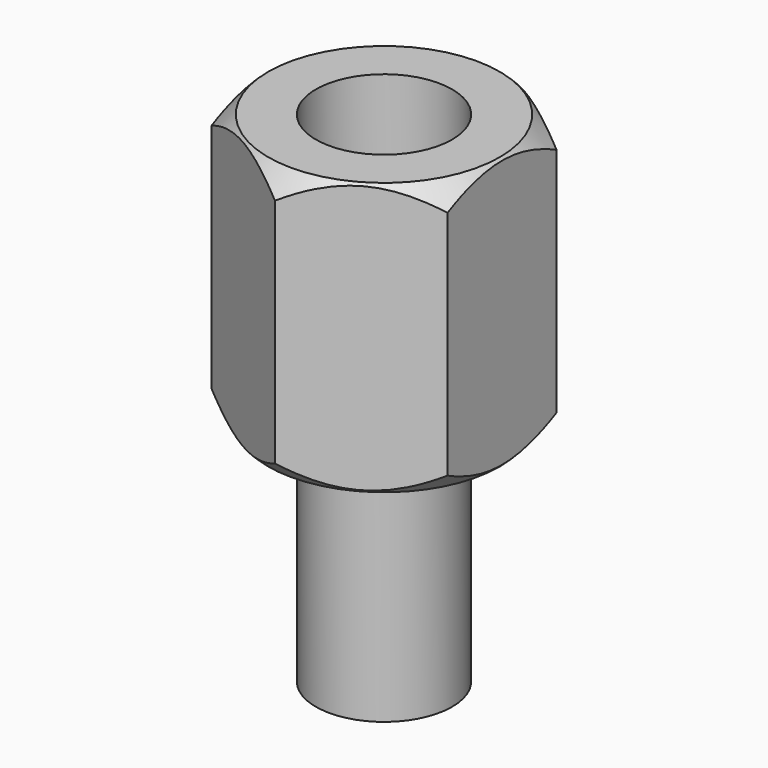
from build123d import *

# Parameters (mm, degrees)
PAD_DEPTH    = 3
SKETCH001_R  = 1.5
POCKET_DEPTH = 4
SKETCH004_R  = 1.5
PAD001_DEPTH = 5


with BuildPart() as part:
    # Sketch → Pad (new body, symmetric)
    with BuildSketch(Plane.XY):
        Polygon((2.6, 1.501111), (0, 3.002221), (-2.6, 1.501111), (-2.6, -1.501111), (0, -3.002221), (2.6, -1.501111), align=None)
    extrude(amount=PAD_DEPTH, both=True)

    # Sketch001 (on Face8 of Pad) → Pocket (cut)
    with BuildSketch(Plane.XY.offset(3)):
        Circle(SKETCH001_R)
    extrude(amount=-POCKET_DEPTH, mode=Mode.SUBTRACT)

    # Sketch004 (on Face4 of Pocket) → Pad001 (join)
    with BuildSketch(Plane(origin=(0, 0, -3), x_dir=(1, 0, 0), z_dir=(0, 0, -1))):
        Circle(SKETCH004_R)
    extrude(amount=PAD001_DEPTH)

    # Sketch006 → Groove (revolve, cut)
    with BuildSketch(Plane.YZ):
        Polygon((1.8, 3.75), (4.8, 3.75), (4.8, -3.75), (1.8, -3.75), (3.55, -2), (3.55, 2), align=None)
    revolve(axis=Axis((0, 0, 0), (0, 0, 1)), mode=Mode.SUBTRACT)


solid = part.part
